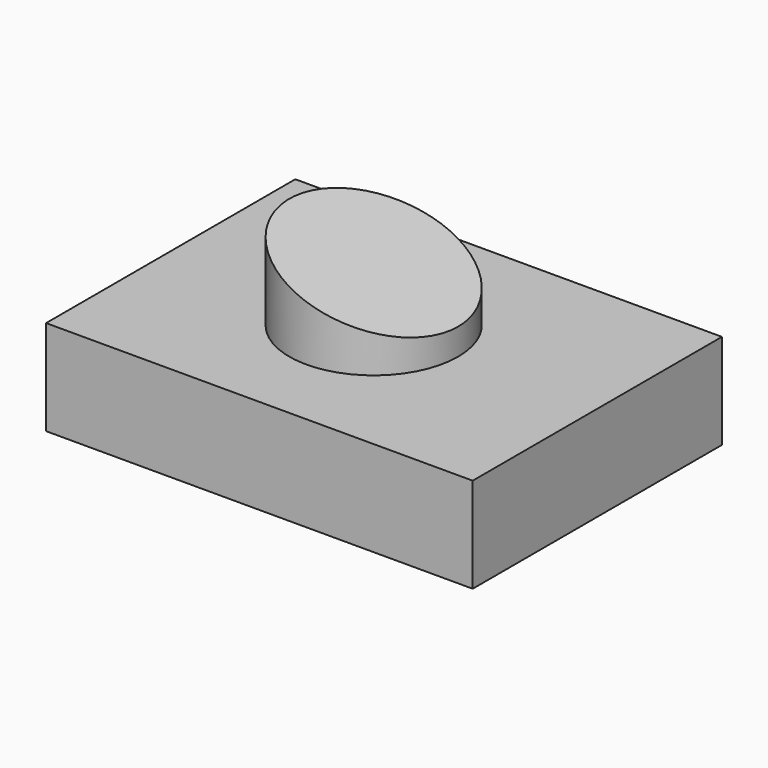
from build123d import *

# Parameters (mm, degrees)
F0_W     = 113.869563
F0_H     = 83.149798
F1_DEPTH = 25.4
F2_R     = 22.535433
F3_DEPTH = 25.4
F5_DEPTH = 76.2


with BuildPart() as f1:
    # F0 (on Top) → F1 (new body)
    with BuildSketch(Plane.XY):
        with Locations((-56.934781, 41.574899)):
            Rectangle(F0_W, F0_H)
    extrude(amount=F1_DEPTH)

    # F2 (on face) → F3 (join)
    with BuildSketch(Plane.XY.offset(25.4)):
        with Locations((-59.87053, 41.805387)):
            Circle(F2_R)
    extrude(amount=F3_DEPTH)

    # F4 (on Front) → F5 (cut)
    with BuildSketch(Plane.XZ):
        Polygon((-102.13092, 49.10665), (-86.741515, 49.326494), (-31.999189, 30.639356), (-31.999189, 64.935751), align=None)
    extrude(amount=-F5_DEPTH, mode=Mode.SUBTRACT)


solid = f1.part
